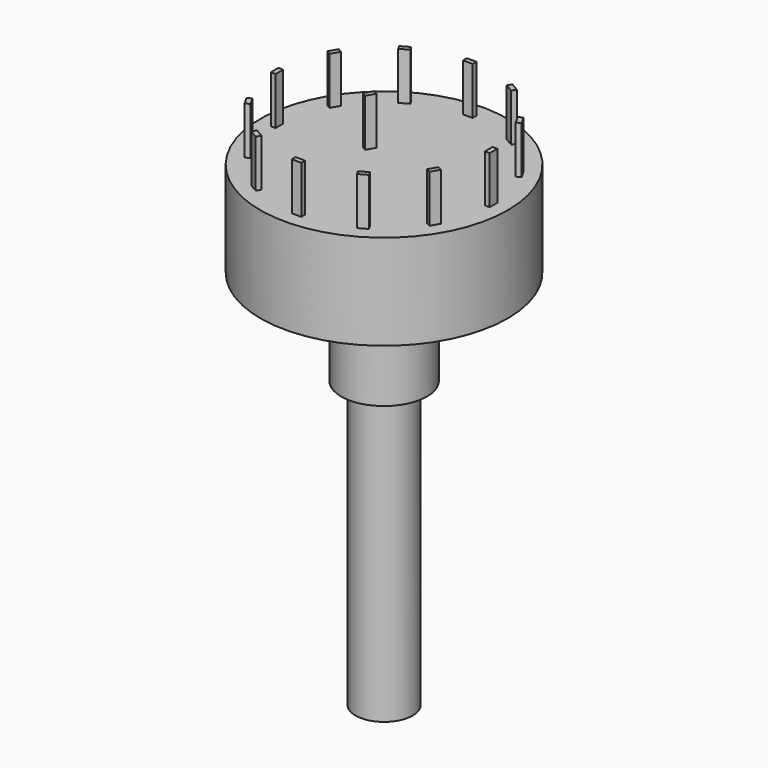
from build123d import *

# Parameters (mm, degrees)
CYLINDER005_R             = 8.5
CYLINDER005_DEPTH         = 2
BOX003_W                  = 0.5
BOX003_H                  = 1
BOX003_DEPTH              = 5
ARRAY001_COUNT            = 12
BOX004_W                  = 0.5
BOX004_H                  = 1
BOX004_DEPTH              = 5
CYLINDER007_R             = 4.5
CYLINDER007_DEPTH         = 8
CYLINDER009_R             = 1.5
CYLINDER009_DEPTH         = 4
BOX005_W                  = 1
BOX005_H                  = 10
BOX005_DEPTH              = 30
CYLINDER008_R             = 3
CYLINDER008_DEPTH         = 30
CYLINDER006_R             = 13
CYLINDER006_DEPTH         = 10
FUSION001_ROLL_ANGLE      = 180
FUSION001_PLACEMENT_ANGLE = 150


with BuildPart() as cylinder005:
    # Cylinder005 → Cylinder005 (new body)
    with BuildSketch(Plane.XY.offset(10)):
        Circle(CYLINDER005_R)
    extrude(amount=CYLINDER005_DEPTH)


with BuildPart() as pin_array001:
    # Box003 → Box003 (new body)
    with BuildSketch(Plane(origin=(11, -0.5, -5), x_dir=(1, 0, 0), z_dir=(0, 0, 1))):
        with Locations((0.25, 0.5)):
            Rectangle(BOX003_W, BOX003_H)
    extrude(amount=BOX003_DEPTH)

    # Array001: Pin array001 ×12 about axis
    array001_axis = Axis((0, 0, 0), (0, 0, 1))


with BuildPart() as pin_array001_1:
    add(pin_array001.part)
    for i in range(1, ARRAY001_COUNT):
        add(pin_array001.part.rotate(array001_axis, i * 360 / ARRAY001_COUNT))


with BuildPart() as pin_central001:
    # Box004 → Box004 (new body)
    with BuildSketch(Plane(origin=(3, -0.5, -5), x_dir=(1, 0, 0), z_dir=(0, 0, 1))):
        with Locations((0.25, 0.5)):
            Rectangle(BOX004_W, BOX004_H)
    extrude(amount=BOX004_DEPTH)


with BuildPart() as cylinder007:
    # Cylinder007 → Cylinder007 (new body)
    with BuildSketch(Plane.XY.offset(12)):
        Circle(CYLINDER007_R)
    extrude(amount=CYLINDER007_DEPTH)


with BuildPart() as cylinder009:
    # Cylinder009 → Cylinder009 (new body)
    with BuildSketch(Plane(origin=(9, 0, 10), x_dir=(1, 0, 0), z_dir=(0, 0, 1))):
        Circle(CYLINDER009_R)
    extrude(amount=CYLINDER009_DEPTH)


with BuildPart() as obj1:
    # Box005 → Box005 (new body)
    with BuildSketch(Plane(origin=(2, -5, 20), x_dir=(1, 0, 0), z_dir=(0, 0, 1))):
        with Locations((0.5, 5)):
            Rectangle(BOX005_W, BOX005_H)
    extrude(amount=BOX005_DEPTH)


with BuildPart() as obj2:
    # Cylinder008 → Cylinder008 (new body)
    with BuildSketch(Plane.XY.offset(20)):
        Circle(CYLINDER008_R)
    extrude(amount=CYLINDER008_DEPTH)

    # Cut001: cut obj1
    add(obj1.part, mode=Mode.SUBTRACT)


with BuildPart() as fusion001:
    # Cylinder006 → Cylinder006 (new body)
    with BuildSketch(Plane.XY):
        Circle(CYLINDER006_R)
    extrude(amount=CYLINDER006_DEPTH)

    # Fusion001: union Cylinder005, Pin array001, Pin central001, Cylinder007, Cylinder009, obj2
    add(cylinder005.part)
    add(pin_array001_1.part)
    add(pin_central001.part)
    add(cylinder007.part)
    add(cylinder009.part)
    add(obj2.part)


with BuildPart() as fusion001_1:
    # Fusion001 roll: moved
    add(fusion001.part.rotate(Axis((0, 0, 0), (1, 0, 0)), FUSION001_ROLL_ANGLE))


with BuildPart() as fusion001_2:
    # Fusion001 placement: moved
    add(fusion001_1.part.moved(Location((40.992958, 166.973758, 90))).rotate(Axis((40.992958, 166.973758, 90), (0, 0, 1)), FUSION001_PLACEMENT_ANGLE))


solid = fusion001_2.part
